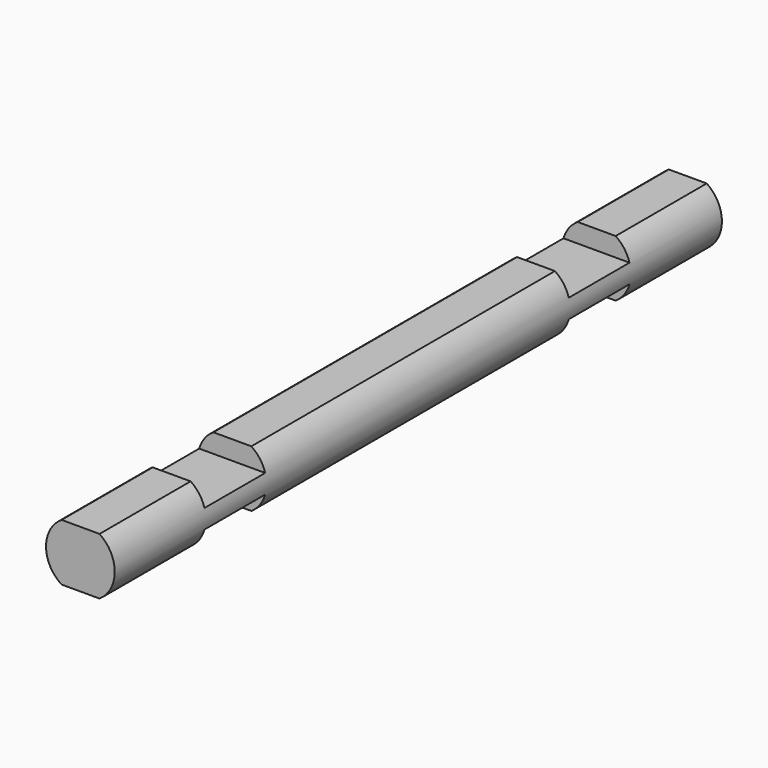
from build123d import *

# Parameters (mm, degrees)
F1_DEPTH = 508
F2_W     = 80.340108
F2_H     = 50.8
F2_W_2   = 82.870346
F3_DEPTH = 12.7
F4_W     = 83.715823
F4_H     = 50.8
F4_W_2   = 80.30174
F5_DEPTH = 12.7


with BuildPart() as f1:
    # F0 (on Front) → F1 (new body)
    with BuildSketch(Plane.XZ):
        with BuildLine():
            Line((3.550242, 42.501207), (-21.849758, 42.501207))
            ThreePointArc((-21.849758, 42.501207), (-32.272509, 23.451207), (-21.849758, 4.401207))
            Line((-21.849758, 4.401207), (3.550242, 4.401207))
            ThreePointArc((3.550242, 4.401207), (13.712078, 23.451207), (3.550242, 42.501207))
        make_face()
    extrude(amount=F1_DEPTH)

    # F2 (on face) → F3 (cut)
    with BuildSketch(Plane.XY.offset(42.501207)):
        with Locations((-9.149758, -406.4)):
            Rectangle(F2_W, F2_H)
        with Locations((-9.149758, -101.6)):
            Rectangle(F2_W_2, F2_H)
    extrude(amount=-F3_DEPTH, mode=Mode.SUBTRACT)

    # F4 (on face) → F5 (cut)
    with BuildSketch(Plane(origin=(0, 0, 4.401207), x_dir=(1, 0, 0), z_dir=(0, 0, -1))):
        with Locations((-9.149757, 101.6)):
            Rectangle(F4_W, F4_H)
        with Locations((-9.149758, 406.4)):
            Rectangle(F4_W_2, F4_H)
    extrude(amount=-F5_DEPTH, mode=Mode.SUBTRACT)


solid = f1.part
